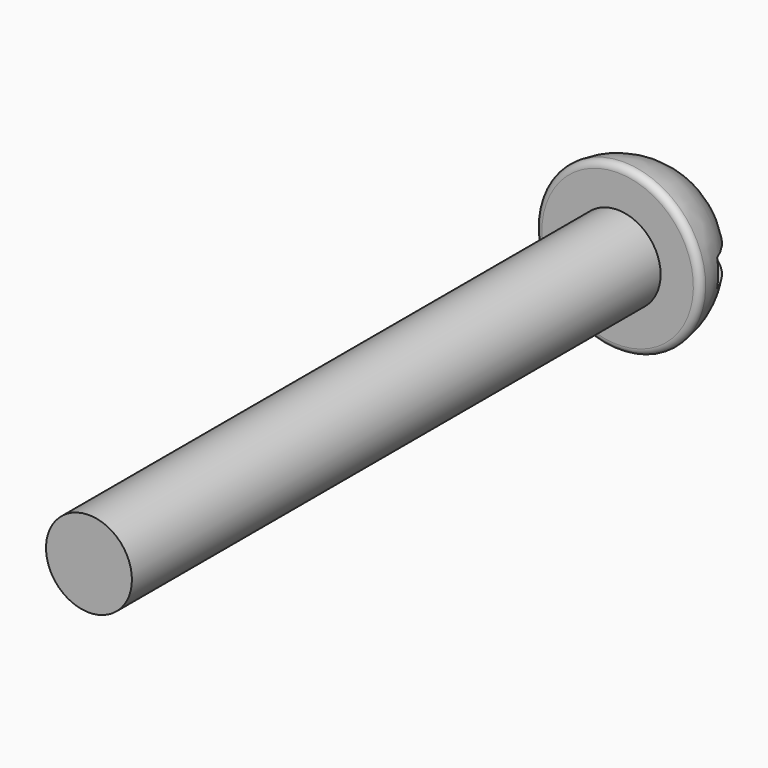
from build123d import *

# Parameters (mm, degrees)
F0_R     = 1.651
F1_DEPTH = 25.4
F4_W     = 3.124762
F4_H     = 1.046538
F5_DEPTH = 12.7


with BuildPart() as f1:
    # F0 (on Front) → F1 (new body)
    with BuildSketch(Plane.XZ):
        Circle(F0_R)
    extrude(amount=F1_DEPTH)

    # F2 (on Right) → F3 (revolve)
    with BuildSketch(Plane.YZ):
        with BuildLine():
            Line((0, 2.909936), (0, 0))
            Line((0, 0), (3.175, 0))
            ThreePointArc((3.175, 0), (2.340641, 2.145233), (0.276087, 3.162973))
            ThreePointArc((0.276087, 3.162973), (0.082381, 3.097187), (0, 2.909936))
        make_face()
    revolve(axis=Axis((0, 1.5875, 0), (0, 1, 0)))

    # F4 (on Right) → F5 (cut, symmetric)
    with BuildSketch(Plane.YZ):
        with Locations((2.691957, 0)):
            Rectangle(F4_W, F4_H)
    extrude(amount=F5_DEPTH, both=True, mode=Mode.SUBTRACT)


solid = f1.part
